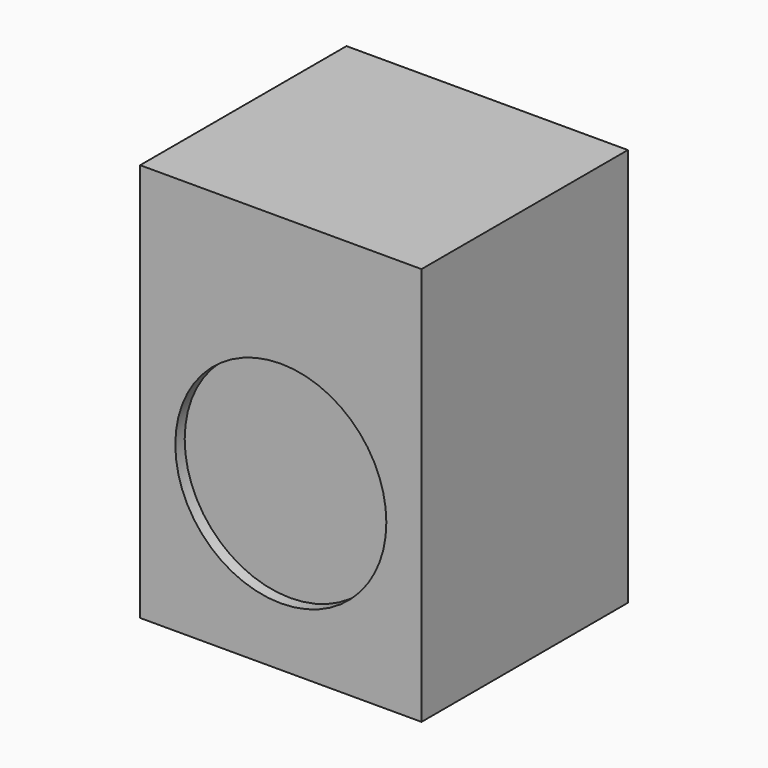
from build123d import *

# Parameters (mm, degrees)
F0_W     = 600
F0_H     = 550
F1_DEPTH = 850
F2_R     = 225
F3_DEPTH = 25


with BuildPart() as f1:
    # F0 (on Top) → F1 (new body)
    with BuildSketch(Plane.XY):
        Rectangle(F0_W, F0_H)
    extrude(amount=F1_DEPTH)

    # F2 (on face) → F3 (cut)
    with BuildSketch(Plane.XZ.offset(275)):
        with Locations((0, 350)):
            Circle(F2_R)
    extrude(amount=-F3_DEPTH, mode=Mode.SUBTRACT)


solid = f1.part
